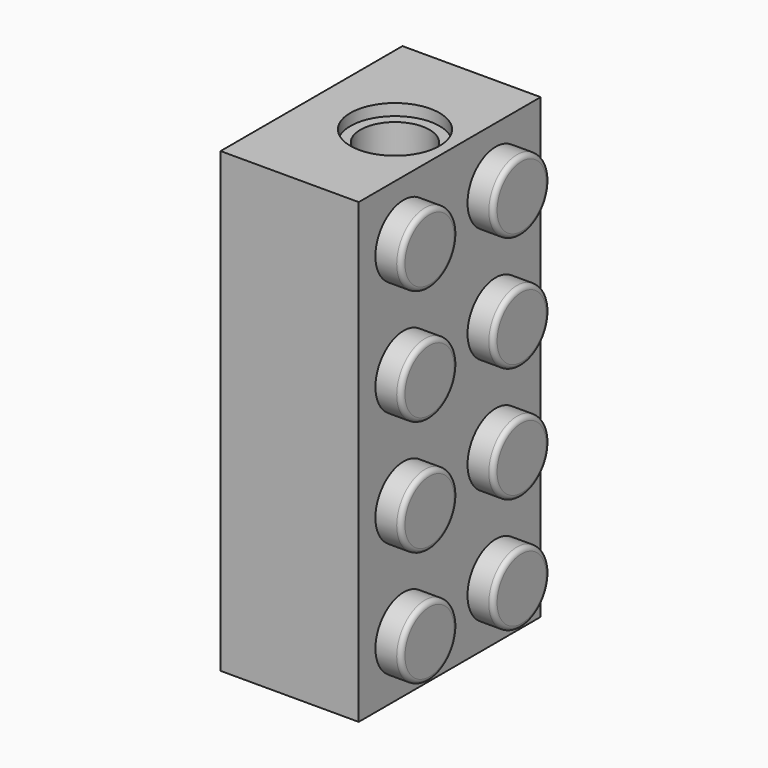
from build123d import *

# Parameters (mm, degrees)
SKETCH025_W                     = 15.8
SKETCH025_H                     = 31.8
PAD015_DEPTH                    = 9.6
SKETCH026_R                     = 2.4
POCKET009_DEPTH                 = 31.8
SKETCH027_R                     = 3.1
POCKET010_DEPTH                 = 0.8
SKETCH028_R                     = 2.45
PAD016_DEPTH                    = 1.8
SKETCH028_LINEARPATTERN009_2_R  = 2.45
PAD016_LINEARPATTERN009_2_DEPTH = 1.8
SKETCH028_LINEARPATTERN009_3_R  = 2.45
PAD016_LINEARPATTERN009_3_DEPTH = 1.8
SKETCH028_LINEARPATTERN009_4_R  = 2.45
PAD016_LINEARPATTERN009_4_DEPTH = 1.8
FILLET009_R                     = 0.32


with BuildPart() as part:
    # Sketch025 → Pad015 (new body)
    with BuildSketch(Plane.YZ):
        Rectangle(SKETCH025_W, SKETCH025_H)
    extrude(amount=PAD015_DEPTH)

    # Sketch026 (on Face1 of Pad015) → Pocket009 (cut)
    with BuildSketch(Plane(origin=(0, 0, 15.9), x_dir=(0, -1, 0), z_dir=(0, 0, 1))):
        with Locations((0, 5.8)):
            Circle(SKETCH026_R)
    extrude(amount=-POCKET009_DEPTH, mode=Mode.SUBTRACT)

    # Sketch027 (on Face1 of Pocket009) → Pocket010 (cut)
    with BuildSketch(Plane(origin=(0, 0, 15.9), x_dir=(0, -1, 0), z_dir=(0, 0, 1))):
        with Locations((0, 5.8)):
            Circle(SKETCH027_R)
    pocket010 = extrude(amount=-POCKET010_DEPTH, mode=Mode.SUBTRACT)

    # Mirrored004: Pocket010 across XY
    add(pocket010.mirror(Plane.XY), mode=Mode.SUBTRACT)

    # Sketch028 (on Face4 of Mirrored004) → Pad016 (join)
    with BuildSketch(Plane.YZ.offset(9.6)):
        with Locations((4, 12)):
            Circle(SKETCH028_R)
    pad016 = extrude(amount=PAD016_DEPTH)

    # Sketch028 LinearPattern009 2 → Pad016 LinearPattern009 2 (add)
    with BuildSketch(Plane(origin=(9.6, 0, -8), x_dir=(0, 1, 0), z_dir=(1, 0, 0))):
        with Locations((4, 12)):
            Circle(SKETCH028_LINEARPATTERN009_2_R)
    pad016_linearpattern009_2 = extrude(amount=PAD016_LINEARPATTERN009_2_DEPTH)

    # Sketch028 LinearPattern009 3 → Pad016 LinearPattern009 3 (add)
    with BuildSketch(Plane(origin=(9.6, 0, -16), x_dir=(0, 1, 0), z_dir=(1, 0, 0))):
        with Locations((4, 12)):
            Circle(SKETCH028_LINEARPATTERN009_3_R)
    pad016_linearpattern009_3 = extrude(amount=PAD016_LINEARPATTERN009_3_DEPTH)

    # Sketch028 LinearPattern009 4 → Pad016 LinearPattern009 4 (add)
    with BuildSketch(Plane(origin=(9.6, 0, -24), x_dir=(0, 1, 0), z_dir=(1, 0, 0))):
        with Locations((4, 12)):
            Circle(SKETCH028_LINEARPATTERN009_4_R)
    pad016_linearpattern009_4 = extrude(amount=PAD016_LINEARPATTERN009_4_DEPTH)

    # Mirrored005: Pad016, Pad016 LinearPattern009 2, Pad016 LinearPattern009 3, Pad016 LinearPattern009 4 across XZ
    add(pad016.mirror(Plane.XZ))
    add(pad016_linearpattern009_2.mirror(Plane.XZ))
    add(pad016_linearpattern009_3.mirror(Plane.XZ))
    add(pad016_linearpattern009_4.mirror(Plane.XZ))

    # Fillet009
    fillet009_edges = [part.edges().sort_by_distance(p)[0] for p in [
        (11.4, -1.55, -12),
        (11.4, 1.55, -12),
        (11.4, 1.55, -4),
        (11.4, -1.55, -4),
        (11.4, -1.55, 4),
        (11.4, 1.55, 4),
        (11.4, 1.55, 12),
        (11.4, -1.55, 12),
    ]]
    fillet(fillet009_edges, radius=FILLET009_R)


with BuildPart() as part_1:
    # Body006 placement: moved
    add(part.part.moved(Location((-5.8, 24, 0))))


solid = part_1.part
